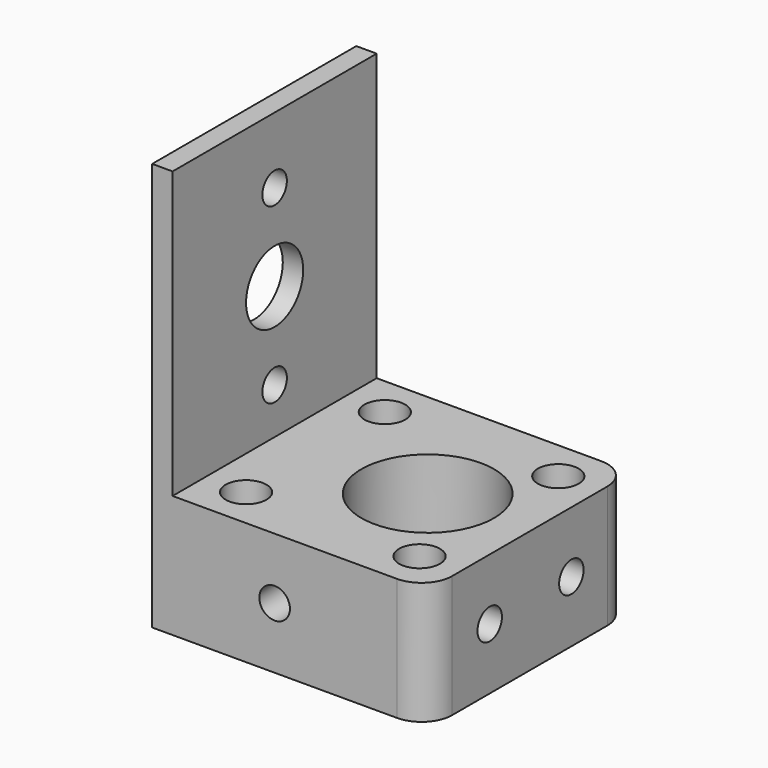
from build123d import *

# Parameters (mm, degrees)
F0_W           = 27
F0_H           = 25
F0_R           = 2
F0_R_2         = 6.5
F1_DEPTH       = 12
F2_W           = 2
F2_H           = 25
F3_DEPTH       = 28
F4_R           = 1.5
F5_DEPTH       = 4
F6_R           = 1.5
F7_DEPTH       = 4
F8_R           = 1.5
F9_DEPTH       = 4
F10_R          = 3
F11_R          = 3.5
F11_R_2        = 1.5
F12_DEPTH      = 25
F12_DEPTH_BACK = 25


with BuildPart() as f1:
    # F0 (on Top) → F1 (new body)
    with BuildSketch(Plane.XY):
        with Locations((0.431113, -5.095445)):
            Rectangle(F0_W, F0_H)
        with Locations((-7.068887, -13.595445)):
            Circle(F0_R, mode=Mode.SUBTRACT)
        with Locations((9.931113, -13.595445)):
            Circle(F0_R, mode=Mode.SUBTRACT)
        with Locations((-7.068887, 3.404555)):
            Circle(F0_R, mode=Mode.SUBTRACT)
        with Locations((3.931113, -5.095445)):
            Circle(F0_R_2, mode=Mode.SUBTRACT)
        with Locations((9.931113, 3.404555)):
            Circle(F0_R, mode=Mode.SUBTRACT)
    extrude(amount=F1_DEPTH)

    # F2 (on face) → F3 (join)
    with BuildSketch(Plane.XY.offset(12)):
        with Locations((-12.068887, -5.095445)):
            Rectangle(F2_W, F2_H)
    extrude(amount=F3_DEPTH)

    # F4 (on face) → F5 (cut)
    with BuildSketch(Plane.YZ.offset(13.931113)):
        with Locations((-9.995445, 6)):
            Circle(F4_R)
        with Locations((0.004555, 6)):
            Circle(F4_R)
    extrude(amount=-F5_DEPTH, mode=Mode.SUBTRACT)

    # F6 (on face) → F7 (cut)
    with BuildSketch(Plane.XZ.offset(17.595445)):
        with Locations((-1.068887, 6)):
            Circle(F6_R)
    extrude(amount=-F7_DEPTH, mode=Mode.SUBTRACT)

    # F8 (on face) → F9 (cut)
    with BuildSketch(Plane(origin=(0, 7.404555, 0), x_dir=(-1, 0, 0), z_dir=(0, 1, 0))):
        with Locations((1.068887, 6)):
            Circle(F8_R)
    extrude(amount=-F9_DEPTH, mode=Mode.SUBTRACT)

    # F10
    f10_edges = [f1.edges().sort_by_distance(p)[0] for p in [
        (13.931113, -17.595445, 6),
        (13.931113, 7.404555, 6),
    ]]
    fillet(f10_edges, radius=F10_R)

    # F11 (on face) → F12 (cut, two sides)
    with BuildSketch(Plane.YZ.offset(-11.068887)) as f12_sk:
        with Locations((-5.095445, 25)):
            Circle(F11_R)
        with Locations((-5.095445, 33.5)):
            Circle(F11_R_2)
        with Locations((-5.095445, 16.5)):
            Circle(F11_R_2)
    extrude(amount=-F12_DEPTH, mode=Mode.SUBTRACT)
    extrude(f12_sk.sketch, amount=-F12_DEPTH_BACK, mode=Mode.SUBTRACT)


solid = f1.part
